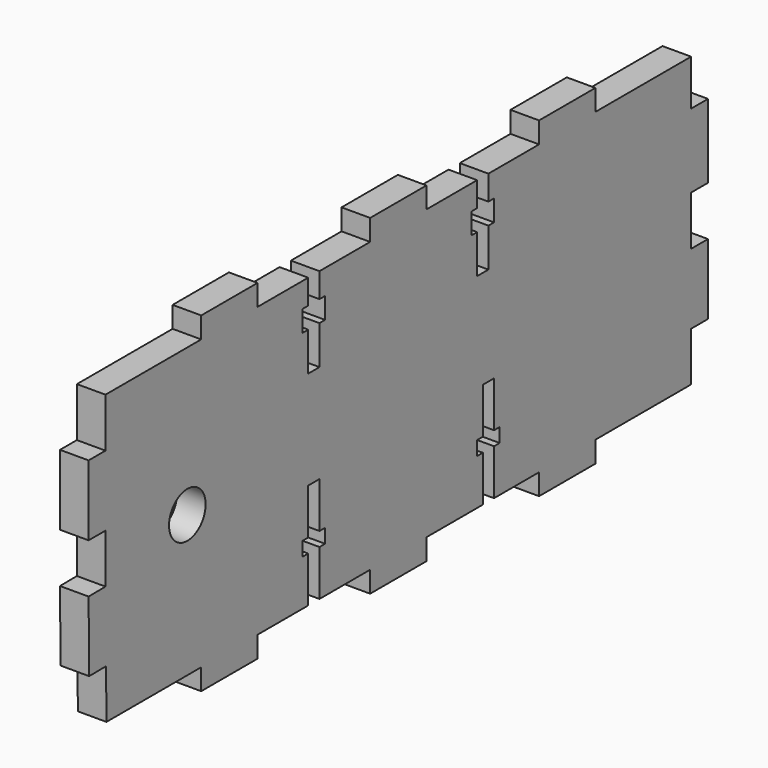
from build123d import *

# Parameters (mm, degrees)
F0_R     = 3.25
F1_DEPTH = 4.064


with BuildPart() as f1:
    # F0 (on Right) → F1 (new body)
    with BuildSketch(Plane.YZ):
        Polygon((-47.118501, 17.030547), (-50.118501, 17.030547), (-50.118501, 7.030547), (-47.118501, 7.030547), (-47.118501, 0.030547), (-50.118346, 0), (-50.016524, -9.999482), (-47.016679, -9.968935), (-46.945404, -16.968572), (-30.118501, -16.968572), (-30.118501, -19.968572), (-20.118501, -19.968572), (-20.118501, -16.968572), (-11.118501, -16.968572), (-11.118501, -10.468572), (-12.118501, -10.468572), (-12.118501, -8.468572), (-11.118501, -8.468572), (-11.118501, -1.968572), (-9.118501, -1.968572), (-9.118501, -8.468572), (-8.118501, -8.468572), (-8.118501, -10.468572), (-9.118501, -10.468572), (-9.118501, -16.968572), (-0.118501, -16.968572), (-0.118501, -19.968572), (9.881499, -19.968572), (9.881499, -16.968572), (19.881499, -16.968572), (19.881499, -10.468572), (18.881499, -10.468572), (18.881499, -8.468572), (19.881499, -8.468572), (19.881499, -1.968572), (21.881499, -1.968572), (21.881499, -8.468572), (22.881499, -8.468572), (22.881499, -10.468572), (21.881499, -10.468572), (21.881499, -16.968572), (29.881499, -16.968572), (29.881499, -19.968572), (39.881499, -19.968572), (39.881499, -16.968572), (56.881499, -16.968572), (56.881499, -9.999482), (59.881499, -9.999482), (59.881499, 0), (56.881499, 0), (56.881499, 7.030547), (59.881499, 7.030547), (59.881499, 17.530547), (56.881499, 17.530547), (56.881499, 24.030547), (39.881499, 24.030547), (39.881499, 27.030547), (29.881499, 27.030547), (29.881499, 24.030547), (20.881499, 24.030547), (20.881499, 20.530547), (21.881499, 20.530547), (21.881499, 17.530547), (20.881499, 17.530547), (20.881499, 12.030547), (18.881499, 12.030547), (18.881499, 17.530547), (17.881499, 17.530547), (17.881499, 20.530547), (18.881499, 20.530547), (18.881499, 24.030547), (9.881499, 24.030547), (9.881499, 27.030547), (-0.118501, 27.030547), (-0.118501, 24.030547), (-9.118501, 24.030547), (-9.118501, 20.530547), (-8.118501, 20.530547), (-8.118501, 17.530547), (-9.118501, 17.530547), (-9.118501, 12.030547), (-11.118501, 12.030547), (-11.118501, 17.530547), (-12.118501, 17.530547), (-12.118501, 20.530547), (-11.118501, 20.530547), (-11.118501, 24.030547), (-20.118501, 24.030547), (-20.118501, 27.030547), (-30.118501, 27.030547), (-30.118501, 24.030547), (-47.118501, 24.030547), align=None)
        with Locations((-32.581907, 3.088805)):
            Circle(F0_R, mode=Mode.SUBTRACT)
    extrude(amount=F1_DEPTH)


solid = f1.part
